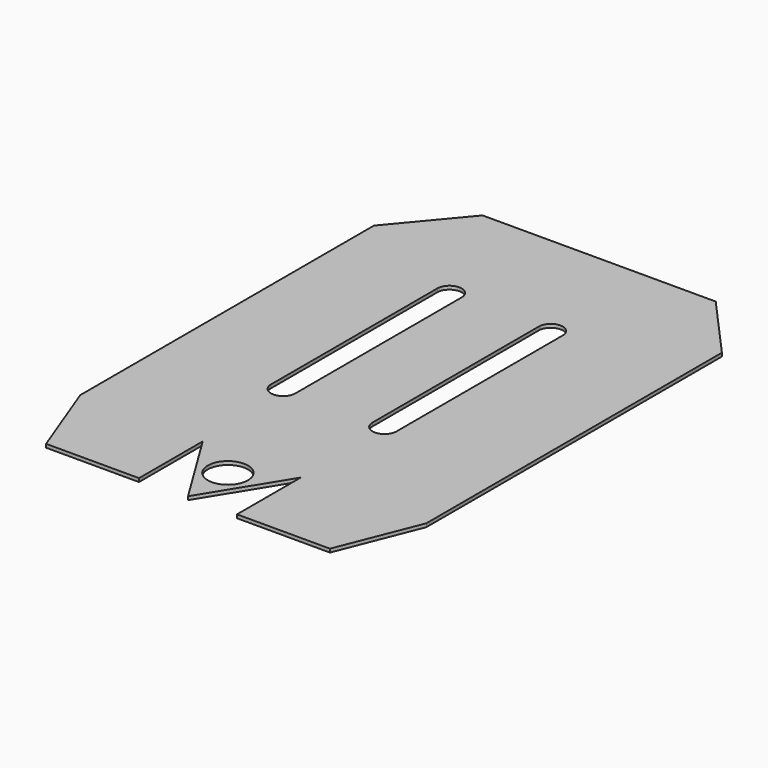
from build123d import *

# Parameters (mm, degrees)
F1_DEPTH = 1
F3_DEPTH = 25
F5_DEPTH = 25
F6_DEPTH = 25
F2_R     = 5.7880952092
F7_DEPTH = 25


with BuildPart() as f1:
    # F0 (on Top) → F1 (new body)
    with BuildSketch(Plane.XY):
        Polygon((40.0670631063, 70.4256593338), (-27.2264379082, 70.4256593338), (-43.2491574436, 51.2352331091), (-43.2491574436, -54.7129847109), (-34.4047052506, -78.0962194188), (-7.5810035465, -78.0962194188), (-7.5810035465, -55.0962194188), (6.5611320772, -78.0962194188), (20.703267701, -55.0962194188), (20.703267701, -78.0962194188), (47.5269694051, -78.0962194188), (56.7508425564, -54.8600372004), (56.7508425564, 51.807079816), align=None)
    extrude(amount=F1_DEPTH)

    # F2 (on face) → F3 (cut)
    with BuildSketch(Plane.XY.offset(1)):
        with BuildLine():
            ThreePointArc((-5.9025767259, 36.2230366468), (-9.419005597, 39.7394655179), (-12.9354344681, 36.2230366468))
            Line((-12.9354344681, 36.2230366468), (-12.9354344681, -23.7769633532))
            ThreePointArc((-12.9354344681, -23.7769633532), (-9.419005597, -27.2933922242), (-5.9025767259, -23.7769633532))
            Line((-5.9025767259, -23.7769633532), (-5.9025767259, 36.2230366468))
        make_face()
    extrude(amount=-F3_DEPTH, mode=Mode.SUBTRACT)

    # F4 (on face) → F5 (cut)
    with BuildSketch(Plane.XY.offset(1)):
        with BuildLine():
            Line((16.5544010537, 35.9870965779), (16.5544010537, -24.0129034221))
            ThreePointArc((16.5544010537, -24.0129034221), (20.0195604854, -27.4780628539), (23.4847199172, -24.0129034221))
            Line((23.4847199172, -24.0129034221), (23.4847199172, 35.9870965779))
            ThreePointArc((23.4847199172, 35.9870965779), (20.0195604854, 39.4522560096), (16.5544010537, 35.9870965779))
        make_face()
    extrude(amount=-F5_DEPTH, mode=Mode.SUBTRACT)

    # F2 (on face) → F6 (cut)
    with BuildSketch(Plane.XY.offset(1)):
        with BuildLine():
            ThreePointArc((-5.9025767259, 36.2230366468), (-9.419005597, 39.7394655179), (-12.9354344681, 36.2230366468))
            Line((-12.9354344681, 36.2230366468), (-12.9354344681, -23.7769633532))
            ThreePointArc((-12.9354344681, -23.7769633532), (-9.419005597, -27.2933922242), (-5.9025767259, -23.7769633532))
            Line((-5.9025767259, -23.7769633532), (-5.9025767259, 36.2230366468))
        make_face()
    extrude(amount=-F6_DEPTH, mode=Mode.SUBTRACT)

    # F2 (on face) + F1_face1 (on face) → F7 (cut)
    with BuildSketch(Plane.XY.offset(1)):
        with BuildLine():
            ThreePointArc((-5.9025767259, 36.2230366468), (-9.419005597, 39.7394655179), (-12.9354344681, 36.2230366468))
            Line((-12.9354344681, 36.2230366468), (-12.9354344681, -23.7769633532))
            ThreePointArc((-12.9354344681, -23.7769633532), (-9.419005597, -27.2933922242), (-5.9025767259, -23.7769633532))
            Line((-5.9025767259, -23.7769633532), (-5.9025767259, 36.2230366468))
        make_face()
        with Locations((6.4631924033, -63.5865926743)):
            Circle(F2_R)
    with BuildSketch(Plane(origin=(6.8498182108, -3.4099472257, 0), x_dir=(1, 0, 0), z_dir=(0, 0, -1))):
        Polygon((33.2172448955, -73.8356065595), (49.9010243455, -55.2170270416), (49.9010243455, 51.4500899747), (40.6771511943, 74.6862721932), (13.8534494901, 74.6862721932), (13.8534494901, 51.6862721932), (-0.2886861336, 74.6862721932), (-14.4308217573, 51.6862721932), (-14.4308217573, 74.6862721932), (-41.2545234614, 74.6862721932), (-50.0989756545, 51.3030374853), (-50.0989756545, -54.6451803347), (-34.076256119, -73.8356065595), align=None)
        with BuildLine():
            Line((9.7045828429, -39.3970438035), (9.7045828429, 20.6029561965))
            ThreePointArc((9.7045828429, 20.6029561965), (13.1697422746, 24.0681156282), (16.6349017064, 20.6029561965))
            Line((16.6349017064, 20.6029561965), (16.6349017064, -39.3970438035))
            ThreePointArc((16.6349017064, -39.3970438035), (13.1697422746, -42.8622032353), (9.7045828429, -39.3970438035))
        make_face(mode=Mode.SUBTRACT)
        with BuildLine():
            Line((-12.7523949367, 20.3670161275), (-12.7523949367, -39.6329838725))
            ThreePointArc((-12.7523949367, -39.6329838725), (-16.2688238078, -43.1494127436), (-19.7852526789, -39.6329838725))
            Line((-19.7852526789, -39.6329838725), (-19.7852526789, 20.3670161275))
            ThreePointArc((-19.7852526789, 20.3670161275), (-16.2688238078, 23.8834449986), (-12.7523949367, 20.3670161275))
        make_face(mode=Mode.SUBTRACT)
    extrude(amount=-F7_DEPTH, dir=(0, 0, 1), mode=Mode.SUBTRACT)


solid = f1.part
